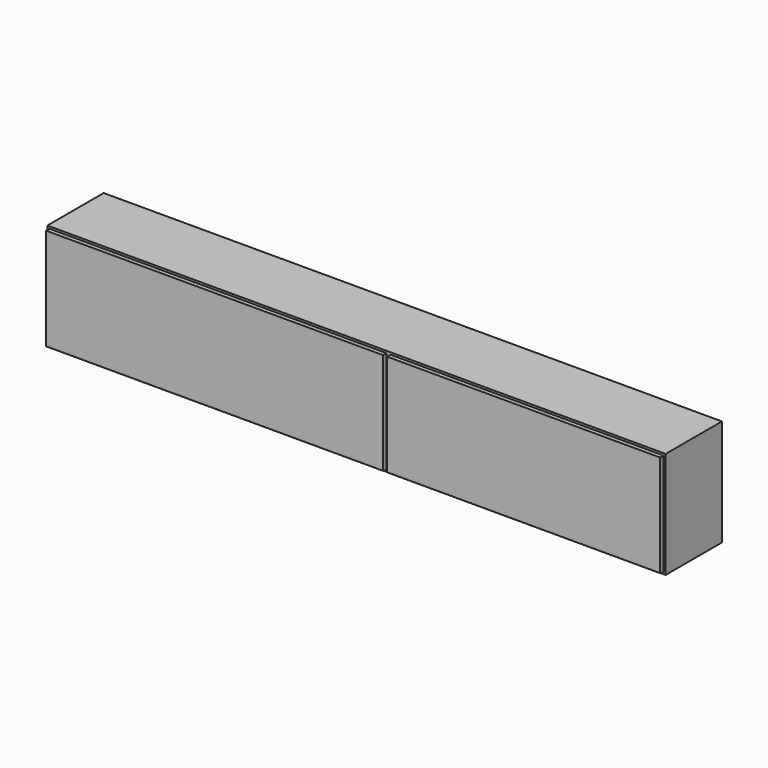
from build123d import *

# Parameters (mm, degrees)
F0_W     = 2900
F0_H     = 500
F1_DEPTH = 330
F2_T     = -25
F3_W     = 25
F3_H     = 450
F4_DEPTH = 305
F5_W     = 1580
F5_H     = 480
F5_W_2   = 1280
F6_DEPTH = 20
F7_R     = 5


with BuildPart() as f1:
    # F0 (on Front) → F1 (new body)
    with BuildSketch(Plane.XZ):
        with Locations((0, 250)):
            Rectangle(F0_W, F0_H)
    extrude(amount=F1_DEPTH)

    # F2
    f2_openings = [f1.faces().sort_by_distance(p)[0] for p in [
        (0, -330, 250),
    ]]
    offset(amount=F2_T, openings=f2_openings)

    # F3 (on face) → F4 (join, through all)
    with BuildSketch(Plane.XZ.offset(25)):
        with Locations((137.5, 250)):
            Rectangle(F3_W, F3_H)
        with Locations((162.5, 250)):
            Rectangle(F3_W, F3_H)
    extrude(amount=F4_DEPTH)


with BuildPart() as f6:
    # F5 (on face) → F6 (new body)
    with BuildSketch(Plane.XZ.offset(330)):
        with Locations((-650, 250)):
            Rectangle(F5_W, F5_H)
        with Locations((800, 250)):
            Rectangle(F5_W_2, F5_H)
    extrude(amount=F6_DEPTH)

    # F7
    f7_edges = [f6.edges().sort_by_distance(p)[0] for p in [
        (-650, -350, 10),
        (800, -350, 10),
    ]]
    fillet(f7_edges, radius=F7_R)


solid = Compound([f1.part, f6.part])
